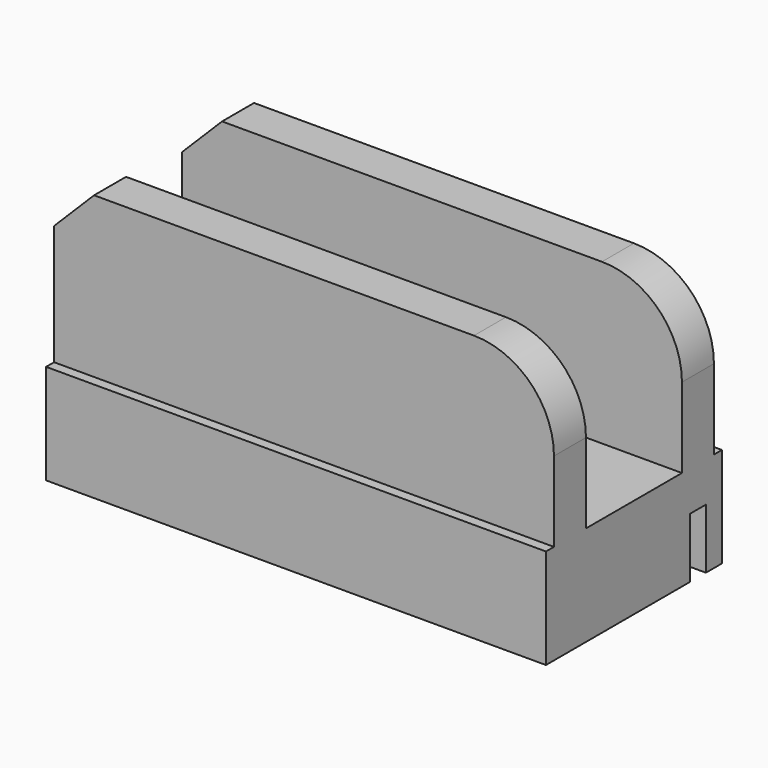
from build123d import *

# Parameters (mm, degrees)
F0_W     = 125
F0_H     = 55
F0_R     = 15
F1_DEPTH = 25
F2_W     = 125
F2_H     = 10
F3_DEPTH = 40
F4_R     = 20
F5_SIZE  = 10
F6_W     = 5
F6_H     = 30
F7_DEPTH = 125.001


with BuildPart() as f1:
    # F0 (on Top) → F1 (new body)
    with BuildSketch(Plane.XY):
        Rectangle(F0_W, F0_H)
        Circle(F0_R, mode=Mode.SUBTRACT)
    extrude(amount=F1_DEPTH)

    # F2 (on face) → F3 (join)
    with BuildSketch(Plane.XY.offset(25)):
        with Locations((0, -20)):
            Rectangle(F2_W, F2_H)
        Polygon((-62.5, 15), (0, 15), (62.5, 15), (62.5, 25), (-62.5, 25), align=None)
    extrude(amount=F3_DEPTH)

    # F4
    f4_edges = [f1.edges().sort_by_distance(p)[0] for p in [
        (62.5, -20, 65),
        (62.5, 20, 65),
    ]]
    fillet(f4_edges, radius=F4_R)

    # F5
    f5_edges = [f1.edges().sort_by_distance(p)[0] for p in [
        (-62.5, 20, 65),
        (-62.5, -20, 65),
    ]]
    chamfer(f5_edges, length=F5_SIZE)

    # F6 (on face) → F7 (cut, through all)
    with BuildSketch(Plane.YZ.offset(62.5)):
        with Locations((20, 0)):
            Rectangle(F6_W, F6_H)
    extrude(amount=-F7_DEPTH, mode=Mode.SUBTRACT)


solid = f1.part
